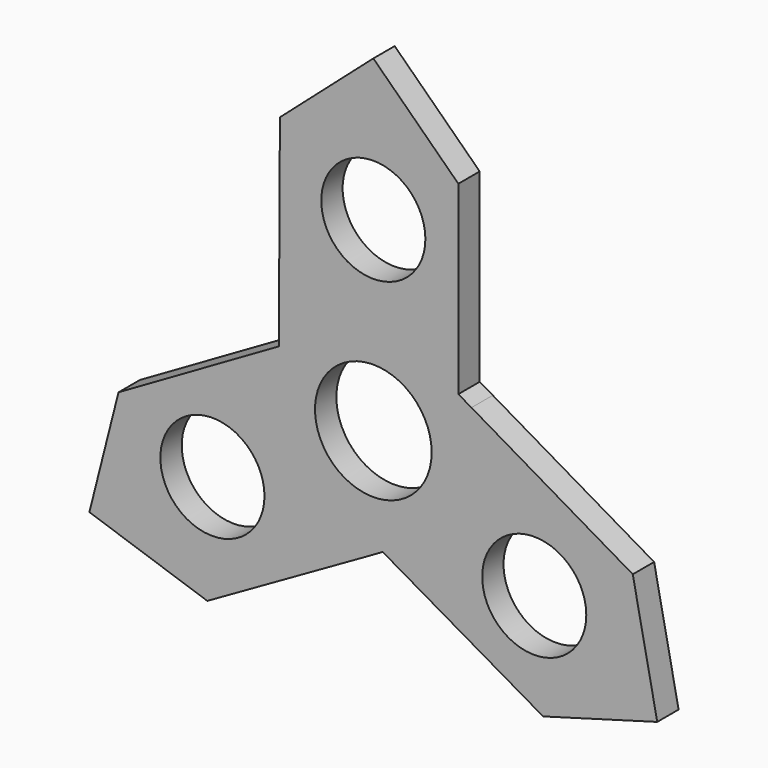
from build123d import *

# Parameters (mm, degrees)
F0_R     = 9.75
F0_R_2   = 10.925
F1_DEPTH = 5


with BuildPart() as f1:
    # F0 (on Front) → F1 (new body)
    with BuildSketch(Plane.XZ):
        Polygon((-17.500252, 46.017231), (-17.68345, 11.01771), (-17.68345, 8.178467), (-47.734589, -9.171566), (-53.187955, -30.70808), (-31.101965, -38.164278), (-0.699892, -20.823172), (1.758964, -19.40355), (31.810104, -36.753584), (53.187955, -30.70808), (48.602217, -7.852953), (18.383342, 9.805462), (15.924485, 11.225083), (15.924485, 45.92515), (0, 61.41616), align=None)
        with Locations((-30.14223, -17.402625)):
            Circle(F0_R, mode=Mode.SUBTRACT)
        with Locations((30.14223, -17.402625)):
            Circle(F0_R, mode=Mode.SUBTRACT)
        Circle(F0_R_2, mode=Mode.SUBTRACT)
        with Locations((0, 34.805249)):
            Circle(F0_R, mode=Mode.SUBTRACT)
    extrude(amount=F1_DEPTH)


solid = f1.part
